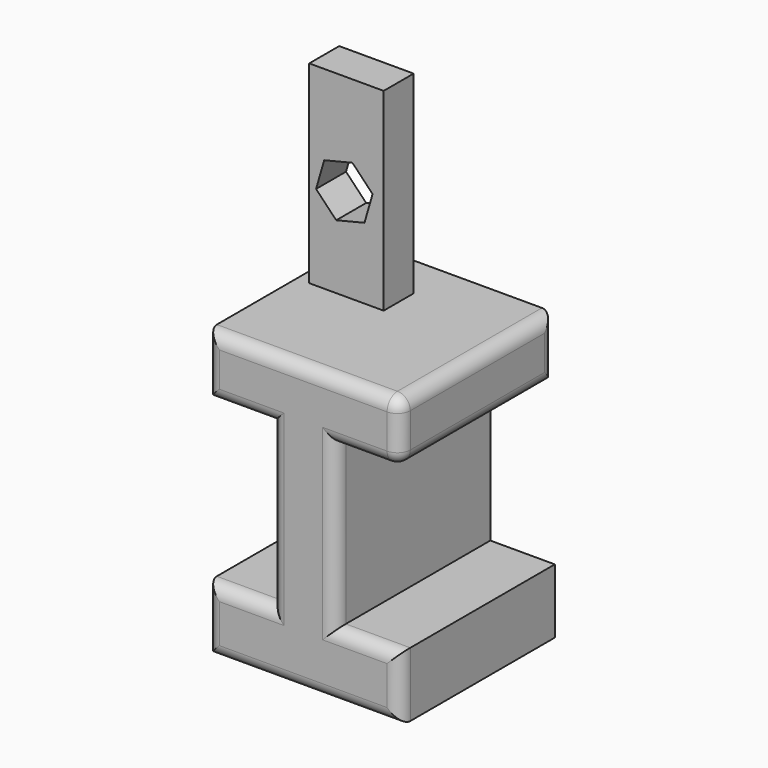
from build123d import *

# Parameters (mm, degrees)
F1_DEPTH = 76.2
F2_W     = 29.3097225949
F2_H     = 14.7436801344
F3_DEPTH = 76.2
F5_DEPTH = 31.8535955081
F6_R     = 5.08


with BuildPart() as f1:
    # F0 (on Front) → F1 (new body)
    with BuildSketch(Plane.XZ):
        Polygon((-39.5237128198, -19.4368070878), (-39.5237128198, -44.8368070878), (36.6762871802, -44.8368070878), (36.6762871802, -19.4368070878), (11.2762871802, -19.4368070878), (11.2762871802, 44.0631929122), (36.6762871802, 44.0631929122), (36.6762871802, 67.8244820096), (-39.5237128198, 67.8244820096), (-39.5237128198, 44.0631929122), (-14.1237131261, 44.0631929122), (-14.1237131261, -19.4368070878), align=None)
    extrude(amount=F1_DEPTH)

    # F2 (on face) → F3 (join)
    with BuildSketch(Plane.XY.offset(67.8244820096)):
        with Locations((-19.8845365085, -24.4807554409)):
            Rectangle(F2_W, F2_H)
    extrude(amount=F3_DEPTH)

    # F4 (on face) → F5 (cut, through all)
    with BuildSketch(Plane.XZ.offset(31.8525955081)):
        Polygon((-17.5263217899, 115.0952721356), (-28.6504694012, 112.3630260708), (-31.8463487054, 101.3631086114), (-23.9180803982, 93.0954372169), (-12.7939327868, 95.8276832817), (-9.5980534826, 106.8276007411), align=None)
    extrude(amount=-F5_DEPTH, mode=Mode.SUBTRACT)

    # F6
    f6_edges = [f1.edges().sort_by_distance(p)[0] for p in [
        (-1.423713, -76.2, 67.824482),
        (36.676287, -38.1, 67.824482),
        (36.676287, -38.1, 44.063193),
        (36.676287, 0, 55.943837),
        (36.676287, -76.2, 55.943837),
        (-26.823713, -76.2, 44.063193),
        (-14.123713, -76.2, 12.313193),
        (-26.823713, -76.2, -19.436807),
        (-39.523713, -76.2, -32.136807),
        (-1.423713, -76.2, -44.836807),
        (36.676287, -76.2, -32.136807),
        (23.976287, -76.2, -19.436807),
        (11.276287, -76.2, 12.313193),
        (23.976287, -76.2, 44.063193),
        (-39.523713, -76.2, 55.943837),
    ]]
    fillet(f6_edges, radius=F6_R)


solid = f1.part
